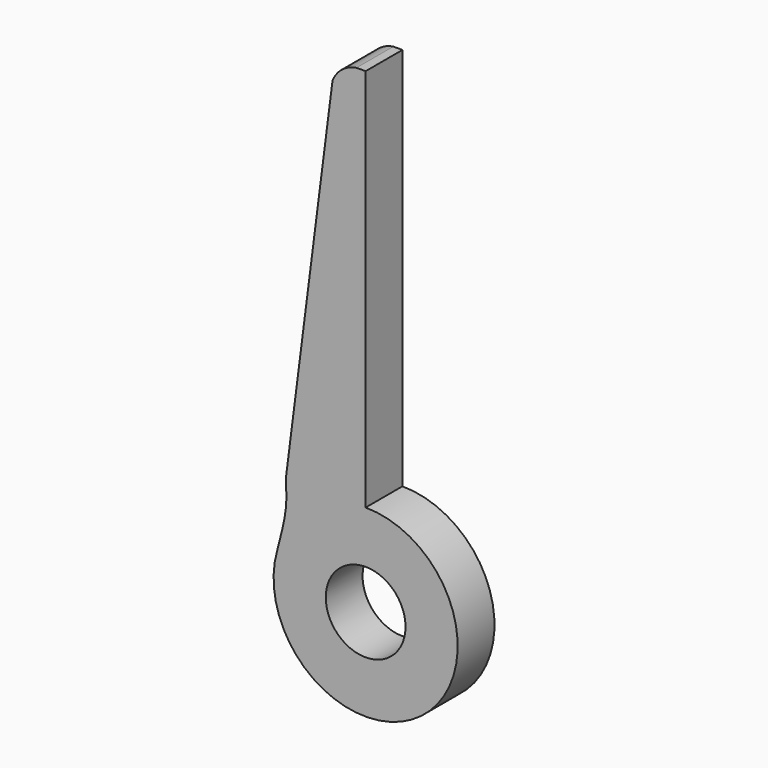
from build123d import *

# Parameters (mm, degrees)
F0_R     = 4.1275
F1_DEPTH = 4.7625


with BuildPart() as f1:
    # F0 (on Front) → F1 (new body)
    with BuildSketch(Plane.XZ):
        with BuildLine():
            Line((-8.255, 9.525), (0, 9.525))
            Line((0, 9.525), (0, 49.2832697928))
            Line((0, 49.2832697928), (-0.9473663012, 49.2832697928))
            ThreePointArc((-0.9473663012, 49.2832697928), (-2.4514240238, 48.6275839873), (-3.4273098403, 47.3085842218))
            Line((-3.4273098403, 47.3085842218), (-3.6252905921, 45.7591015158))
            Line((-3.6252905921, 45.7591015158), (-8.255, 9.525))
        make_face()
        with BuildLine():
            ThreePointArc((-9.1493339582, 2.6486436382), (-1.3375759882, -9.4306158588), (9.525, 0))
            ThreePointArc((9.525, 0), (6.7351920908, 6.7351920908), (0, 9.525))
            ThreePointArc((0, 9.525), (-5.7226433729, 7.6142614761), (-9.1493339582, 2.6486436382))
        make_face()
        Circle(F0_R, mode=Mode.SUBTRACT)
        with BuildLine():
            ThreePointArc((-9.1493339582, 2.6486436382), (-5.7226433729, 7.6142614761), (0, 9.525))
            Line((0, 9.525), (-8.255, 9.525))
            add(Edge.make_bspline(
                [(-8.255, 9.525), (-8.2022898207, 8.6616830371), (-8.0812778962, 6.719736479), (-8.7710787742, 4.1030242901), (-9.1493339582, 2.6486436382)],
                knots=[0, 0, 0, 0, 0.4446862113, 1, 1, 1, 1], degree=3))
        make_face()
    extrude(amount=F1_DEPTH)


solid = f1.part
